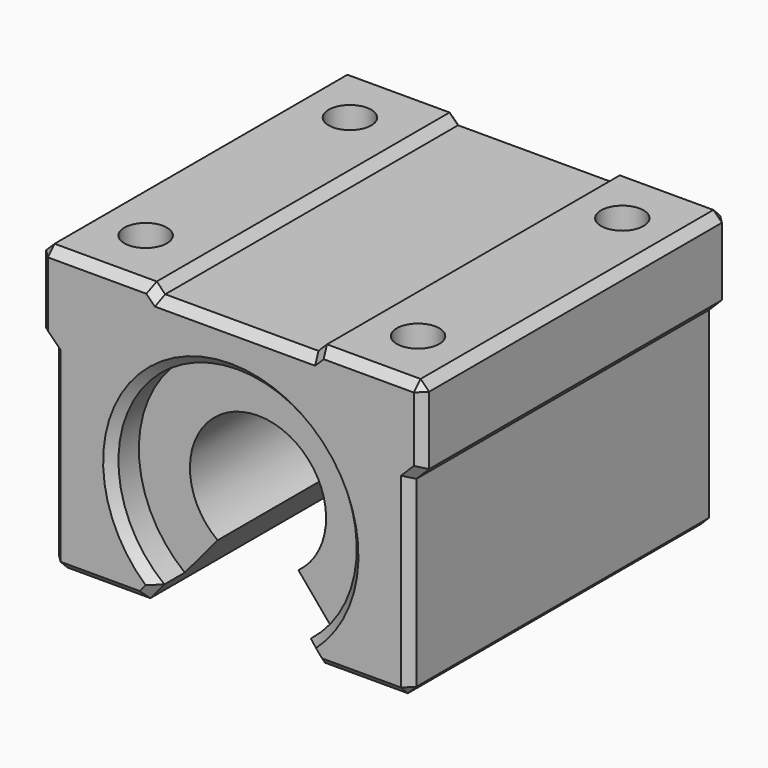
from build123d import *

# Parameters (mm, degrees)
F1_DEPTH = 45
F2_R     = 14
F3_DEPTH = 4
F4_R     = 14
F5_DEPTH = 4
F6_R     = 2.5
F7_DEPTH = 12
F8_SIZE  = 1


with BuildPart() as f1:
    # F0 (on Front) → F1 (new body)
    with BuildSketch(Plane.XZ):
        with BuildLine():
            Line((13, 33), (0, 33))
            Line((0, 33), (0, 24))
            Line((0, 24), (1.5, 22.5))
            Line((1.5, 22.5), (1.5, 0))
            Line((1.5, 0), (12.250585, 0))
            Line((12.250585, 0), (17.754591, 6.559418))
            ThreePointArc((17.754591, 6.559418), (14.899847, 15.497533), (22.5, 21))
            ThreePointArc((22.5, 21), (30.100153, 15.497533), (27.245409, 6.559418))
            Line((27.245409, 6.559418), (32.749415, 0))
            Line((32.749415, 0), (43.5, 0))
            Line((43.5, 0), (43.5, 22.5))
            Line((43.5, 22.5), (45, 24))
            Line((45, 24), (45, 33))
            Line((45, 33), (33, 33))
            Line((33, 33), (32, 32))
            Line((32, 32), (14, 32))
            Line((14, 32), (13, 33))
        make_face()
    extrude(amount=F1_DEPTH)

    # F2 (on face) → F3 (cut)
    with BuildSketch(Plane.XZ.offset(45)):
        with Locations((22.5, 13)):
            Circle(F2_R)
    extrude(amount=-F3_DEPTH, mode=Mode.SUBTRACT)

    # F4 (on face) → F5 (cut)
    with BuildSketch(Plane(origin=(0, 0, 0), x_dir=(-1, 0, 0), z_dir=(0, 1, 0))):
        with Locations((-22.5, 13)):
            Circle(F4_R)
    extrude(amount=-F5_DEPTH, mode=Mode.SUBTRACT)

    # F6 (on face) → F7 (cut)
    with BuildSketch(Plane.XY.offset(33)):
        with Locations((6.5, -37.5)):
            Circle(F6_R)
        with Locations((38.5, -37.5)):
            Circle(F6_R)
        with Locations((6.5, -7.5)):
            Circle(F6_R)
        with Locations((38.5, -7.5)):
            Circle(F6_R)
    extrude(amount=-F7_DEPTH, mode=Mode.SUBTRACT)

    # F8
    f8_edges = [f1.edges().sort_by_distance(p)[0] for p in [
        (22.5, 0, 27),
        (31.927972, 0, 0.978957),
        (38.124707, 0, 0),
        (43.5, 0, 11.25),
        (44.25, 0, 23.25),
        (45, 0, 28.5),
        (39, 0, 33),
        (32.5, 0, 32.5),
        (23, 0, 32),
        (13.5, 0, 32.5),
        (6.5, 0, 33),
        (0, 0, 28.5),
        (0.75, 0, 23.25),
        (1.5, 0, 11.25),
        (6.875293, 0, 0),
        (13.072028, 0, 0.978957),
        (22.5, -45, 27),
        (31.927972, -45, 0.978957),
        (38.124707, -45, 0),
        (43.5, -45, 11.25),
        (44.25, -45, 23.25),
        (45, -45, 28.5),
        (39, -45, 33),
        (32.5, -45, 32.5),
        (23, -45, 32),
        (13.5, -45, 32.5),
        (6.5, -45, 33),
        (0, -45, 28.5),
        (0.75, -45, 23.25),
        (1.5, -45, 11.25),
        (6.875293, -45, 0),
        (13.072028, -45, 0.978957),
        (45, -22.5, 33),
        (0, -22.5, 33),
        (1.5, -22.5, 0),
        (43.5, -22.5, 0),
    ]]
    chamfer(f8_edges, length=F8_SIZE)


solid = f1.part
